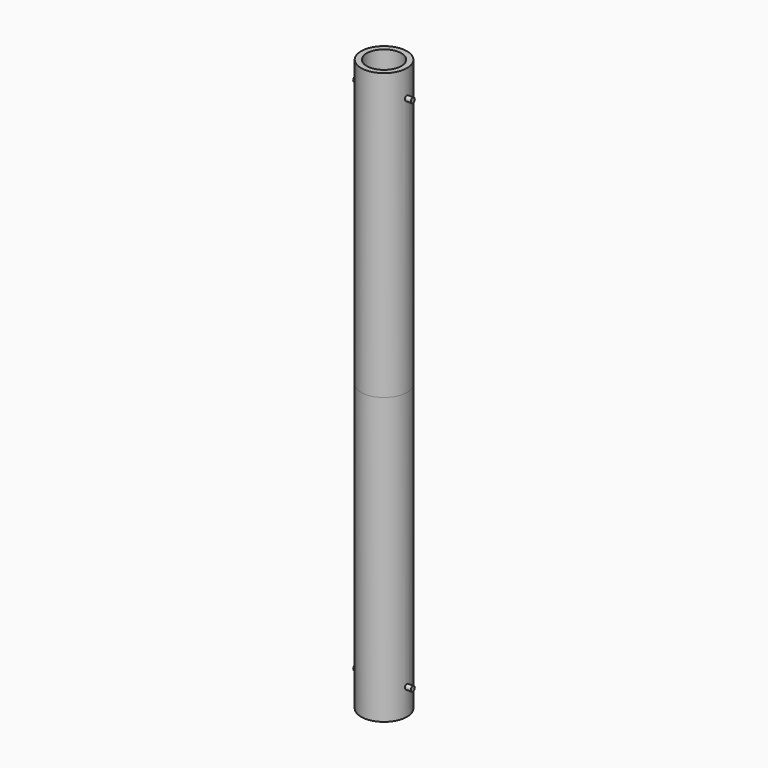
from build123d import *

# Parameters (mm, degrees)
F0_R      = 14.2748
F0_R_2    = 12.827
F1_DEPTH  = 266.7
F3_DEPTH  = 12.7
F4_R      = 14.2748
F4_R_2    = 12.827
F5_DEPTH  = 76.2
F7_R      = 1.524
F8_DEPTH  = 5.08
F10_R     = 1.5875
F11_DEPTH = 5.08
F12_R     = 14.2875
F13_DEPTH = 256.54
F14_R     = 14.2748
F14_R_2   = 12.827
F15_DEPTH = 3.81
F16_R     = 14.2748
F16_R_2   = 10.795
F17_DEPTH = 102.87
F18_DEPTH = 74.93


with BuildPart() as f1:
    # F0 (on Top) → F1 (new body)
    with BuildSketch(Plane.XY):
        Circle(F0_R)
        Circle(F0_R_2, mode=Mode.SUBTRACT)
    extrude(amount=F1_DEPTH)

    # F2 (on face) → F3 (join)
    with BuildSketch(Plane.XY.offset(266.7)):
        with BuildLine():
            Line((-3.175, 12.4278438999), (-3.175, 13.9172299701))
            ThreePointArc((-3.175, 13.9172299701), (0, -14.2748), (3.175, 13.9172299701))
            Line((3.175, 13.9172299701), (3.175, 12.4278438999))
            ThreePointArc((3.175, 12.4278438999), (0, -12.827), (-3.175, 12.4278438999))
        make_face()
    extrude(amount=F3_DEPTH)

    # F4 (on face) → F5 (join)
    with BuildSketch(Plane.XY.offset(279.4)):
        Circle(F4_R)
        Circle(F4_R_2, mode=Mode.SUBTRACT)
    extrude(amount=F5_DEPTH)

    # F7 (on offset) → F8 (join)
    with BuildSketch(Plane.YZ.offset(12.827)):
        with Locations((0, 12.7)):
            Circle(F7_R)
    extrude(amount=F8_DEPTH)

    # F10 (on offset) → F11 (join)
    with BuildSketch(Plane.YZ.offset(-12.827)):
        with Locations((0, 12.7)):
            Circle(F10_R)
    extrude(amount=-F11_DEPTH)

    # F12 (on face) → F13 (cut)
    with BuildSketch(Plane.XY.offset(355.6)):
        Circle(F12_R)
    extrude(amount=-F13_DEPTH, mode=Mode.SUBTRACT)

    # F14 (on face) → F15 (join)
    with BuildSketch(Plane(origin=(0, 0, 0), x_dir=(1, 0, 0), z_dir=(0, 0, -1))):
        Circle(F14_R)
        Circle(F14_R_2, mode=Mode.SUBTRACT)
    extrude(amount=F15_DEPTH)

    # F16 (on face) → F17 (join)
    with BuildSketch(Plane.XY.offset(99.06)):
        Circle(F16_R)
        Circle(F16_R_2, mode=Mode.SUBTRACT)
    extrude(amount=-F17_DEPTH)

    # F16 (on face) → F18 (join)
    with BuildSketch(Plane.XY.offset(99.06)):
        Circle(F16_R)
        Circle(F16_R_2, mode=Mode.SUBTRACT)
    extrude(amount=F18_DEPTH)

    # F19: F1 across face


with BuildPart() as f1_1:
    add(f1.part)
    add(f1.part.mirror(Plane.XY.offset(173.99)))


solid = f1_1.part
